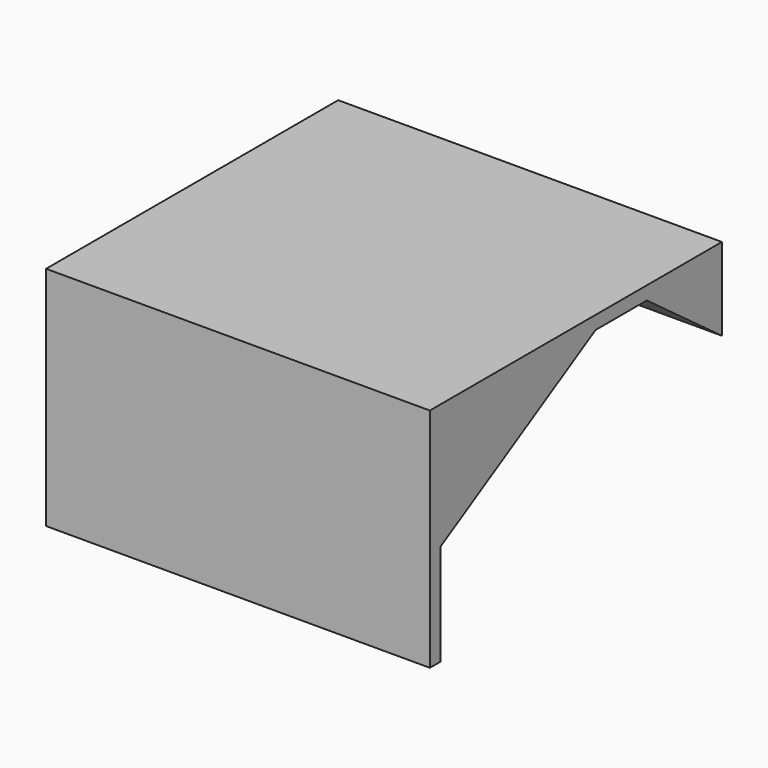
from build123d import *

# Parameters (mm, degrees)
F1_DEPTH = 7315.2
F3_DEPTH = 254
F5_DEPTH = 7315.201


with BuildPart() as f1:
    # F0 (on Right) → F1 (new body)
    with BuildSketch(Plane.YZ):
        Polygon((-254, 0), (0, 0), (0, 1930.4), (3695.503603, 4064), (4914.703603, 4064), (6705.6, 2743.2), (6705.6, 0), (6959.6, 0), (6959.6, 4318), (-254, 4318), align=None)
    extrude(amount=F1_DEPTH)

    # F2 (on face) → F3 (join)
    with BuildSketch(Plane(origin=(0, 0, 0), x_dir=(0, -1, 0), z_dir=(-1, 0, 0))):
        Polygon((254, 0), (254, 4318), (-6959.6, 4318), (-6959.6, 0), (0, 0), align=None)
    extrude(amount=-F3_DEPTH)

    # F4 (on face) → F5 (cut, through all)
    with BuildSketch(Plane.YZ.offset(7315.2)):
        Polygon((6705.6, 2743.2), (6705.6, 0), (6959.6, 0), (6959.6, 4318), (6705.6, 4318), align=None)
    extrude(amount=-F5_DEPTH, mode=Mode.SUBTRACT)


solid = f1.part
